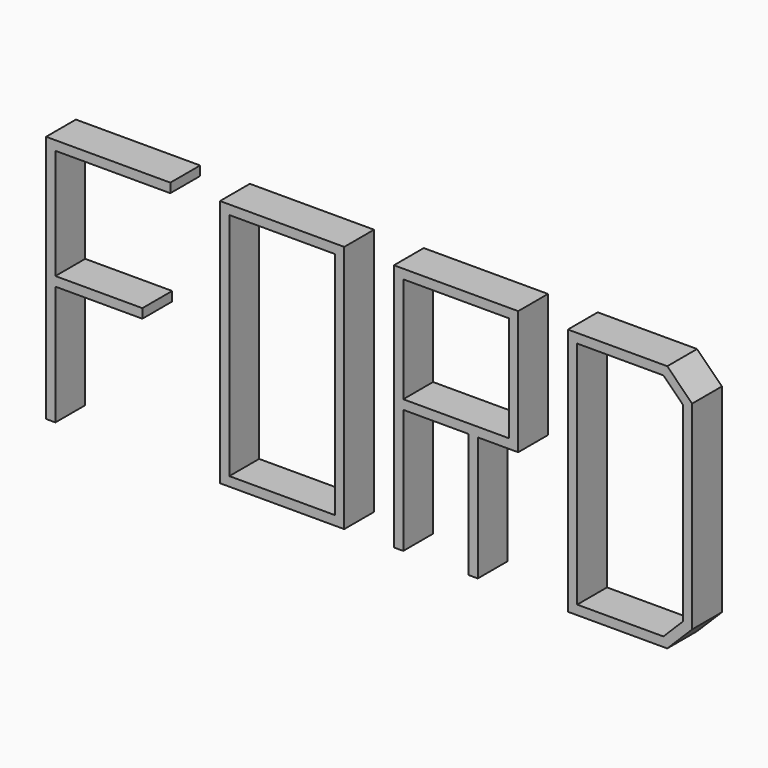
from build123d import *

# Parameters (mm, degrees)
F0_W     = 127
F0_H     = 254
F0_W_2   = 107.95
F0_H_2   = 234.95
F0_W_3   = 9.525
F0_H_3   = 127
F0_H_4   = 107.95
F1_DEPTH = 38.1


with BuildPart() as f1:
    # F0 (on Front) → F1 (new body)
    with BuildSketch(Plane.XZ):
        Polygon((127, 0), (0, 0), (0, -254), (9.525, -254.027693), (9.525, -131.776347), (98.425, -131.776347), (98.425, -122.251347), (9.525, -122.251347), (9.525, -9.525), (127, -9.525), align=None)
        with Locations((241.3, -127)):
            Rectangle(F0_W, F0_H)
        with Locations((241.3, -127)):
            Rectangle(F0_W_2, F0_H_2, mode=Mode.SUBTRACT)
        with Locations((360.3625, -190.5)):
            Rectangle(F0_W_3, F0_H_3)
        Polygon((355.6, 0), (355.6, -127), (365.125, -127), (431.8, -127), (441.325, -127), (482.6, -127), (482.6, 0), align=None)
        with Locations((419.1, -63.5)):
            Rectangle(F0_W_2, F0_H_4, mode=Mode.SUBTRACT)
        with Locations((436.5625, -190.5)):
            Rectangle(F0_W_3, F0_H_3)
        Polygon((635, 0), (533.4, 0), (533.4, -254), (635, -254), (660.4, -228.6), (660.4, -25.4), align=None)
        Polygon((631.054616, -9.525), (650.875, -29.345384), (650.875, -224.654616), (631.054616, -244.475), (542.925, -244.475), (542.925, -9.525), align=None, mode=Mode.SUBTRACT)
    extrude(amount=F1_DEPTH)


solid = f1.part
